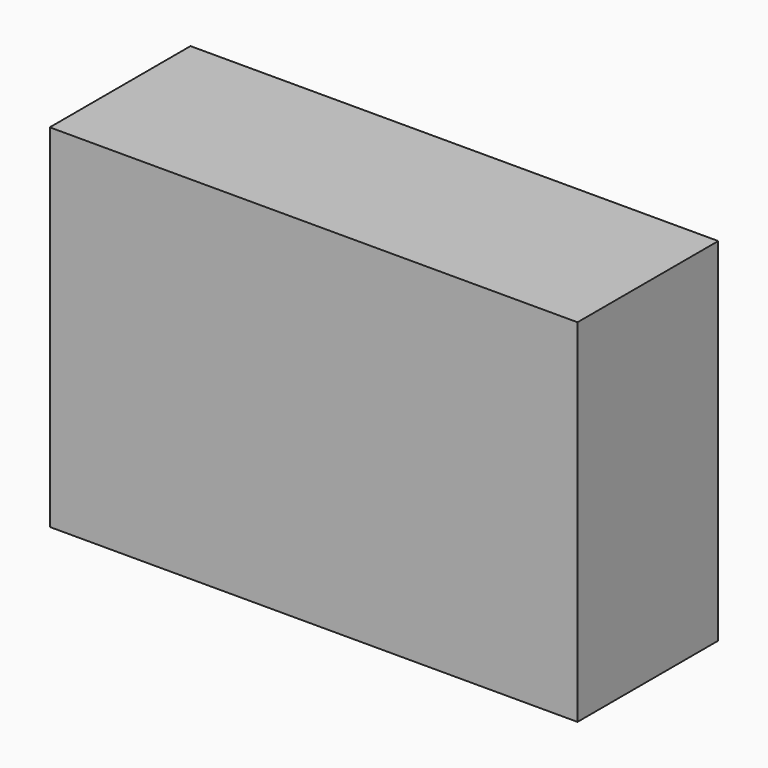
from build123d import *

# Parameters (mm, degrees)
F0_W     = 5994.617803
F0_H     = 8000
F0_W_2   = 6005.382197
F1_DEPTH = 4000


with BuildPart() as f1:
    # F0 (on Front) → F1 (new body)
    with BuildSketch(Plane.XZ):
        with Locations((-2997.308902, 1023.211775)):
            Rectangle(F0_W, F0_H)
        with Locations((3002.691098, 1023.211775)):
            Rectangle(F0_W_2, F0_H)
    extrude(amount=F1_DEPTH)


solid = f1.part
